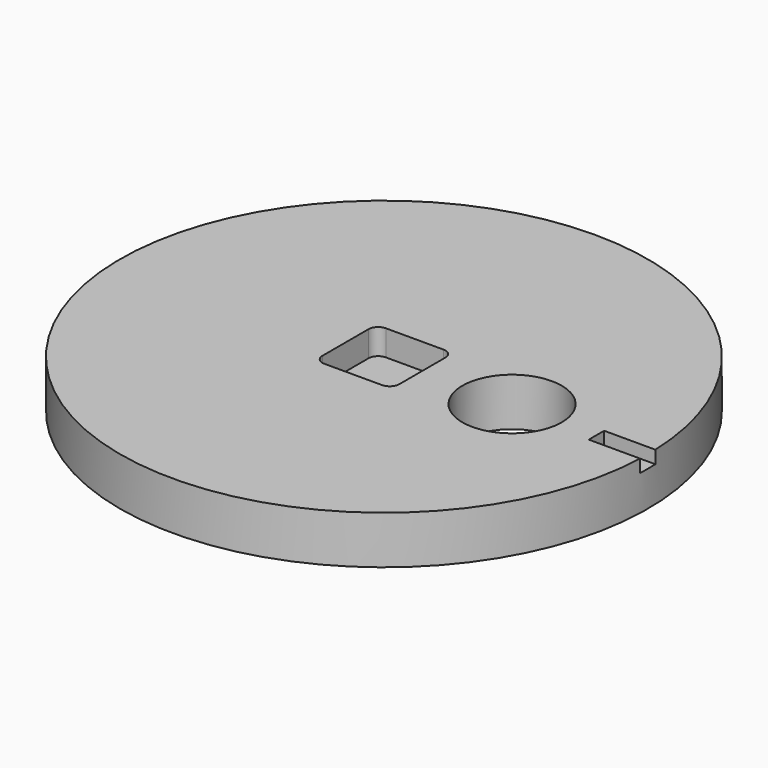
from build123d import *

# Parameters (mm, degrees)
SKETCH004_R             = 41.2
SKETCH004_R_2           = 7.75
PAD002_DEPTH            = 7.5
POCKET007_DEPTH         = 2
POCKET008_DEPTH         = 4
BODY002_PLACEMENT_ANGLE = 90


with BuildPart() as part:
    # Sketch004 → Pad002 (new body)
    with BuildSketch(Plane.XY):
        Circle(SKETCH004_R)
        with Locations((0, -20)):
            Circle(SKETCH004_R_2, mode=Mode.SUBTRACT)
    extrude(amount=PAD002_DEPTH)

    # Sketch018 (on Face4 of Pad002) → Pocket007 (cut)
    with BuildSketch(Plane.XY.offset(7.5)):
        with BuildLine():
            Line((-1.5, -33.172685), (-1.5, -41.172685))
            ThreePointArc((-1.5, -41.172685), (0, -41.2), (1.5, -41.172685))
            Line((1.5, -41.172685), (1.5, -33.172685))
            Line((1.5, -33.172685), (-1.5, -33.172685))
        make_face()
    extrude(amount=-POCKET007_DEPTH, mode=Mode.SUBTRACT)

    # Sketch019 (on Face3 of Pocket007) → Pocket008 (cut)
    with BuildSketch(Plane.XY.offset(7.5)):
        with BuildLine():
            Line((-6, 4.5), (-6, -4.5))
            ThreePointArc((-6, -4.5), (-5.56066, -5.56066), (-4.5, -6))
            Line((-4.5, -6), (4.5, -6))
            ThreePointArc((4.5, -6), (5.56066, -5.56066), (6, -4.5))
            Line((6, -4.5), (6, 4.5))
            ThreePointArc((6, 4.5), (5.56066, 5.56066), (4.5, 6))
            Line((4.5, 6), (-4.5, 6))
            ThreePointArc((-4.5, 6), (-5.56066, 5.56066), (-6, 4.5))
        make_face()
    extrude(amount=-POCKET008_DEPTH, mode=Mode.SUBTRACT)


with BuildPart() as part_1:
    # Body002 placement: moved
    add(part.part.moved(Location((0, 0, -3))).rotate(Axis((0, 0, -3), (0, 0, 1)), BODY002_PLACEMENT_ANGLE))


solid = part_1.part
